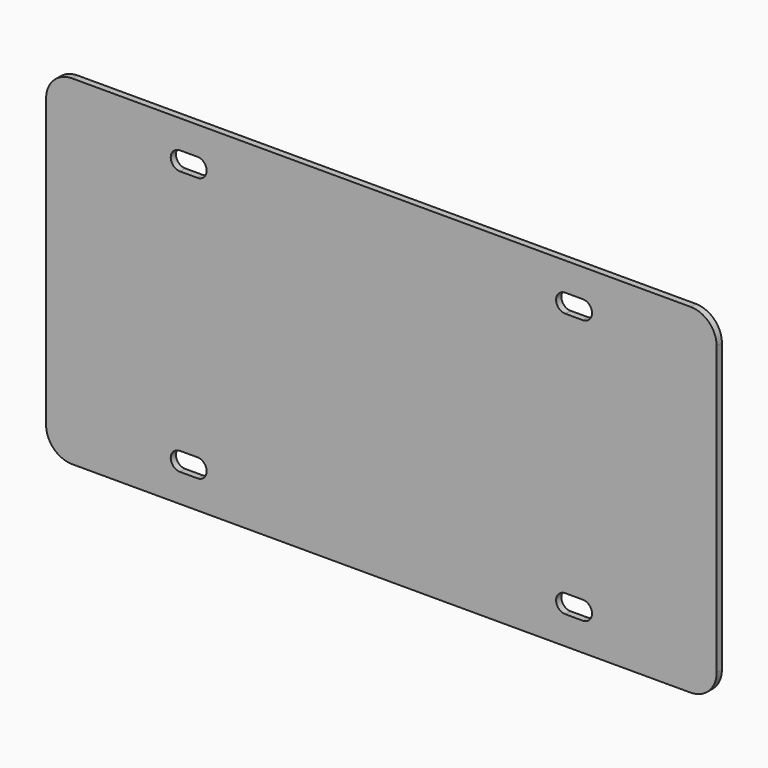
from build123d import *

# Parameters (mm, degrees)
F1_DEPTH = 3


with BuildPart() as f1:
    # F0 (on Front) → F1 (new body)
    with BuildSketch(Plane.XZ):
        with BuildLine():
            ThreePointArc((154, 66), (150.4852813742, 74.4852813742), (142, 78))
            Line((142, 78), (-142, 78))
            ThreePointArc((-142, 78), (-150.4852813742, 74.4852813742), (-154, 66))
            Line((-154, 66), (-154, -66))
            ThreePointArc((-154, -66), (-150.4852813742, -74.4852813742), (-142, -78))
            Line((-142, -78), (142, -78))
            ThreePointArc((142, -78), (150.4852813742, -74.4852813742), (154, -66))
            Line((154, -66), (154, 66))
        make_face()
        with BuildLine():
            ThreePointArc((-84.5, -56.5), (-80.25, -60.75), (-84.5, -65))
            Line((-84.5, -65), (-92.5, -65))
            ThreePointArc((-92.5, -65), (-96.75, -60.75), (-92.5, -56.5))
            Line((-92.5, -56.5), (-84.5, -56.5))
        make_face(mode=Mode.SUBTRACT)
        with BuildLine():
            Line((84.5, -56.5), (92.5, -56.5))
            ThreePointArc((92.5, -56.5), (96.75, -60.75), (92.5, -65))
            Line((92.5, -65), (84.5, -65))
            ThreePointArc((84.5, -65), (80.25, -60.75), (84.5, -56.5))
        make_face(mode=Mode.SUBTRACT)
        with BuildLine():
            Line((-84.5, 56.5), (-92.5, 56.5))
            ThreePointArc((-92.5, 56.5), (-96.75, 60.75), (-92.5, 65))
            Line((-92.5, 65), (-84.5, 65))
            ThreePointArc((-84.5, 65), (-80.25, 60.75), (-84.5, 56.5))
        make_face(mode=Mode.SUBTRACT)
        with BuildLine():
            Line((84.5, 65), (92.5, 65))
            ThreePointArc((92.5, 65), (96.75, 60.75), (92.5, 56.5))
            Line((92.5, 56.5), (84.5, 56.5))
            ThreePointArc((84.5, 56.5), (80.25, 60.75), (84.5, 65))
        make_face(mode=Mode.SUBTRACT)
    extrude(amount=F1_DEPTH)


solid = f1.part
